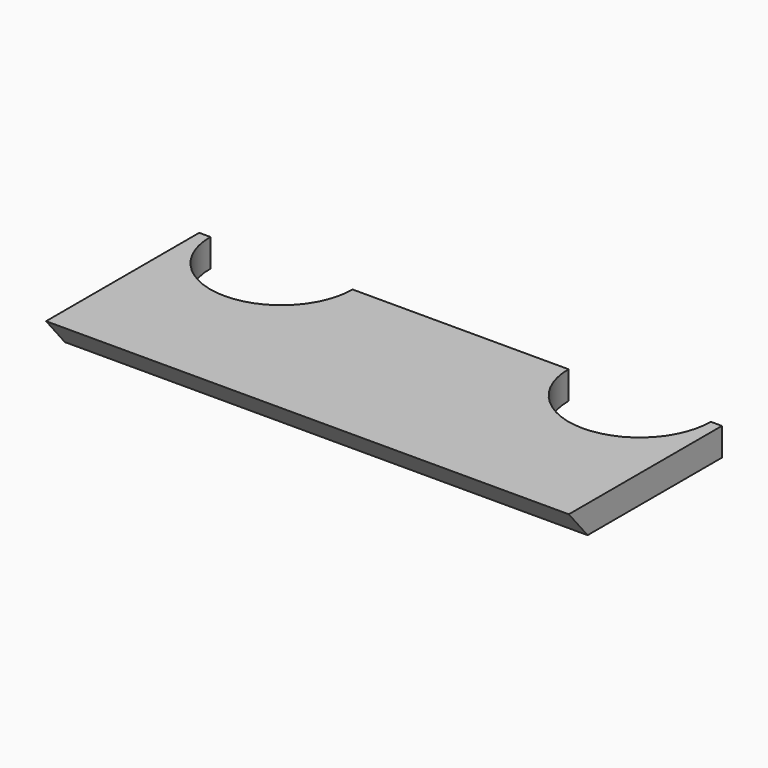
from build123d import *

# Parameters (mm, degrees)
F1_DEPTH = 5
F3_DEPTH = 93.4


with BuildPart() as f1:
    # F0 (on Top) → F1 (new body)
    with BuildSketch(Plane.XY):
        with BuildLine():
            Line((-46.7, 0), (0, 0))
            Line((0, 0), (0, 30))
            Line((0, 30), (-19.3, 30))
            ThreePointArc((-19.3, 30), (-32, 17.3), (-44.7, 30))
            Line((-44.7, 30), (-46.7, 30))
            Line((-46.7, 30), (-46.7, 0))
        make_face()
        with BuildLine():
            Line((0, 30), (0, 0))
            Line((0, 0), (46.7, 0))
            Line((46.7, 0), (46.7, 30))
            Line((46.7, 30), (44.7, 30))
            ThreePointArc((44.7, 30), (32, 17.3), (19.3, 30))
            Line((19.3, 30), (0, 30))
        make_face()
    extrude(amount=F1_DEPTH)

    # F2 (on face) → F3 (join, through all)
    with BuildSketch(Plane(origin=(-46.7, 0, 0), x_dir=(0, -1, 0), z_dir=(-1, 0, 0))):
        Polygon((0, 5), (0, 0), (4.195498, 5), align=None)
    extrude(amount=-F3_DEPTH)


solid = f1.part
